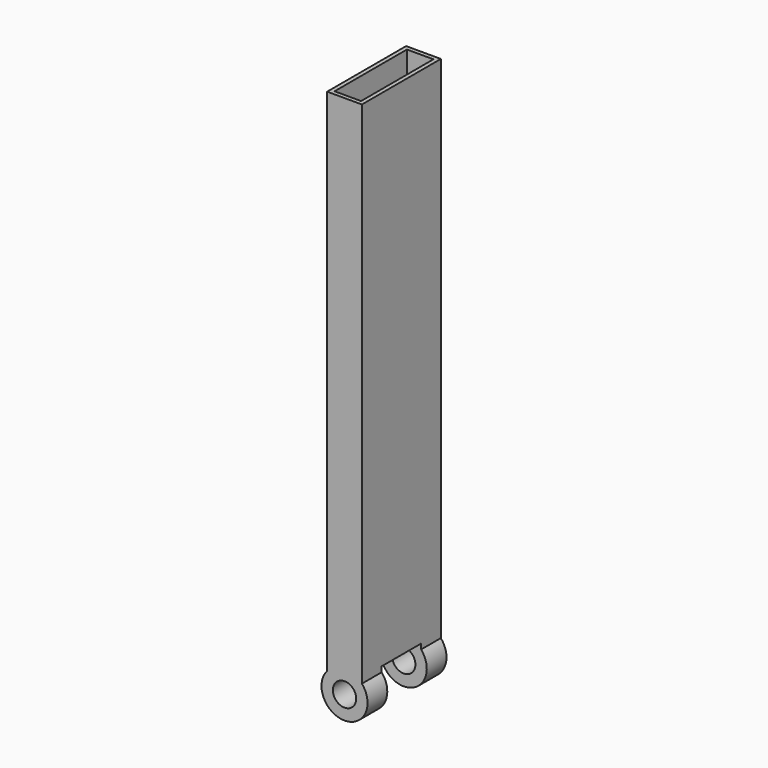
from build123d import *

# Parameters (mm, degrees)
F0_R          = 7.1
F1_DEPTH      = 60
F2_W          = 30
F2_H          = 32.2353386643
F3_DEPTH      = 25
F3_DEPTH_BACK = 25
F4_T          = -2.5


with BuildPart() as f1:
    # F0 (on Front) → F1 (new body)
    with BuildSketch(Plane.XZ):
        with BuildLine():
            Line((-55.5361600815, 234.910292219), (-55.535415078, -75.0897077801))
            ThreePointArc((-55.535415078, -75.0897077801), (-44.9776062474, -98.283221459), (-34.4179178598, -75.0905634563))
            Line((-34.4179178598, -75.0905634563), (-34.4186628633, 234.9094365428))
            Line((-34.4186628633, 234.9094365428), (-55.5361600815, 234.910292219))
        make_face()
        with Locations((-44.9770389706, -84.2832214705)):
            Circle(F0_R, mode=Mode.SUBTRACT)
    extrude(amount=F1_DEPTH)

    # F2 (on face) → F3 (cut, two sides)
    with BuildSketch(Plane(origin=(-55.535595536, 0, -0.0001334652), x_dir=(0, -1, 0), z_dir=(-1, 0, -2.4032e-06))) as f3_sk:
        with Locations((30, -88.0241336473)):
            Rectangle(F2_W, F2_H)
    extrude(amount=-F3_DEPTH, mode=Mode.SUBTRACT)
    extrude(f3_sk.sketch, amount=F3_DEPTH_BACK, mode=Mode.SUBTRACT)

    # F4
    f4_openings = [f1.faces().sort_by_distance(p)[0] for p in [
        (-44.977411, -30, 234.909864),
    ]]
    offset(amount=F4_T, openings=f4_openings, kind=Kind.INTERSECTION)


solid = f1.part
